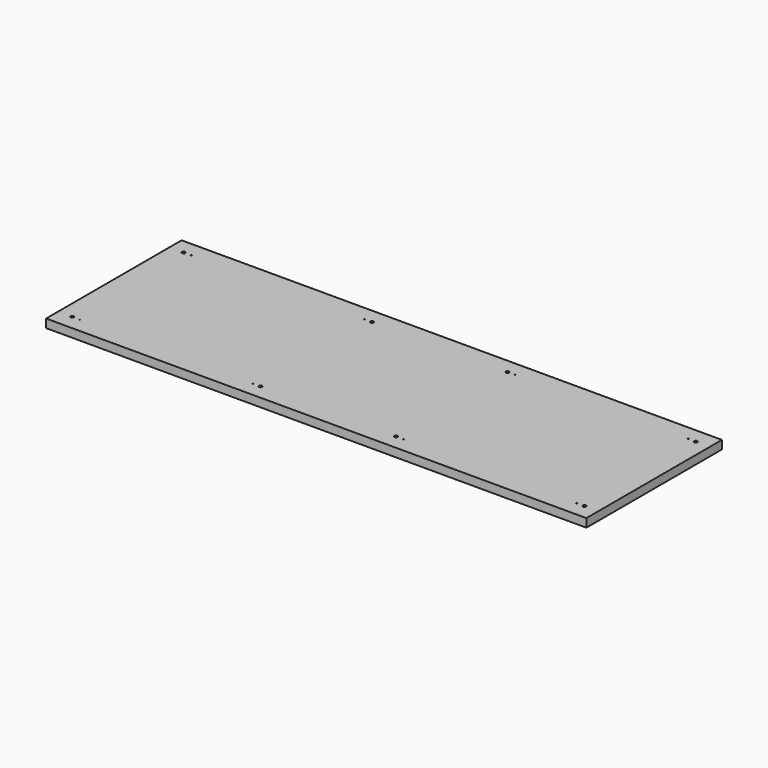
from build123d import *

# Parameters (mm, degrees)
F0_W     = 1822.45
F0_H     = 571.5
F1_DEPTH = 28.575
F3_D     = 10.9982
F3_DEPTH = 31.75
F4_D     = 3.175
F4_DEPTH = 31.75


with BuildPart() as f1:
    # F0 (on Top) → F1 (new body)
    with BuildSketch(Plane.XY):
        Rectangle(F0_W, F0_H)
    extrude(amount=F1_DEPTH)

    # F3
    with Locations(Plane.XY.offset(28.575)):
        with Locations((-863.6, 234.95), (-863.6, -234.95), (-228.6, -234.95), (-228.6, 234.95), (228.6, 234.95), (228.6, -234.95), (863.6, 234.95), (863.6, -234.95)):
            Hole(F3_D / 2, depth=F3_DEPTH)

    # F4
    with Locations(Plane.XY.offset(28.575)):
        with Locations((-838.2, 234.95), (-254, 234.95), (254, 234.95), (838.2, 234.95), (838.2, -234.95), (254, -234.95), (-254, -234.95), (-838.2, -234.95)):
            Hole(F4_D / 2, depth=F4_DEPTH)


solid = f1.part
